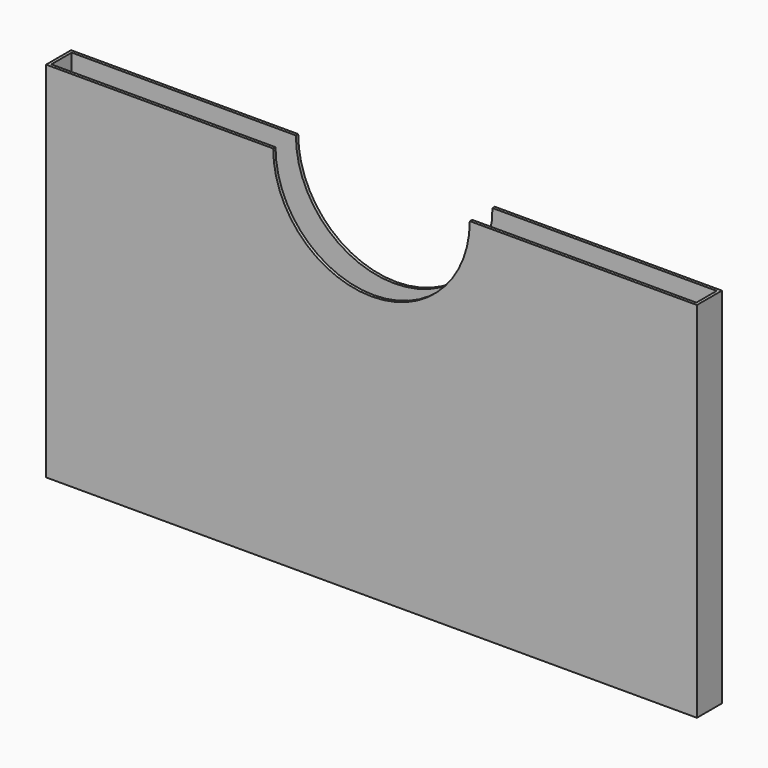
from build123d import *

# Parameters (mm, degrees)
F0_W     = 90.9828
F0_H     = 4.3688
F0_W_2   = 90.17
F0_H_2   = 3.556
F1_DEPTH = 50.8
F2_DEPTH = 0.762
F4_DEPTH = 4.3698


with BuildPart() as f1:
    # F0 (on Top) → F1 (new body)
    with BuildSketch(Plane.XY):
        Rectangle(F0_W, F0_H)
        Rectangle(F0_W_2, F0_H_2, mode=Mode.SUBTRACT)
    extrude(amount=F1_DEPTH)

    # F0 (on Top) → F2 (join)
    with BuildSketch(Plane.XY):
        Rectangle(F0_W, F0_H)
        Rectangle(F0_W_2, F0_H_2, mode=Mode.SUBTRACT)
        Rectangle(F0_W_2, F0_H_2)
    extrude(amount=F2_DEPTH)

    # F3 (on face) → F4 (cut, through all)
    with BuildSketch(Plane.XZ.offset(2.1844)):
        with BuildLine():
            Line((13.7414, 50.8), (-13.7414, 50.8))
            ThreePointArc((-13.7414, 50.8), (0, 37.0586), (13.7414, 50.8))
        make_face()
    extrude(amount=-F4_DEPTH, mode=Mode.SUBTRACT)


solid = f1.part
